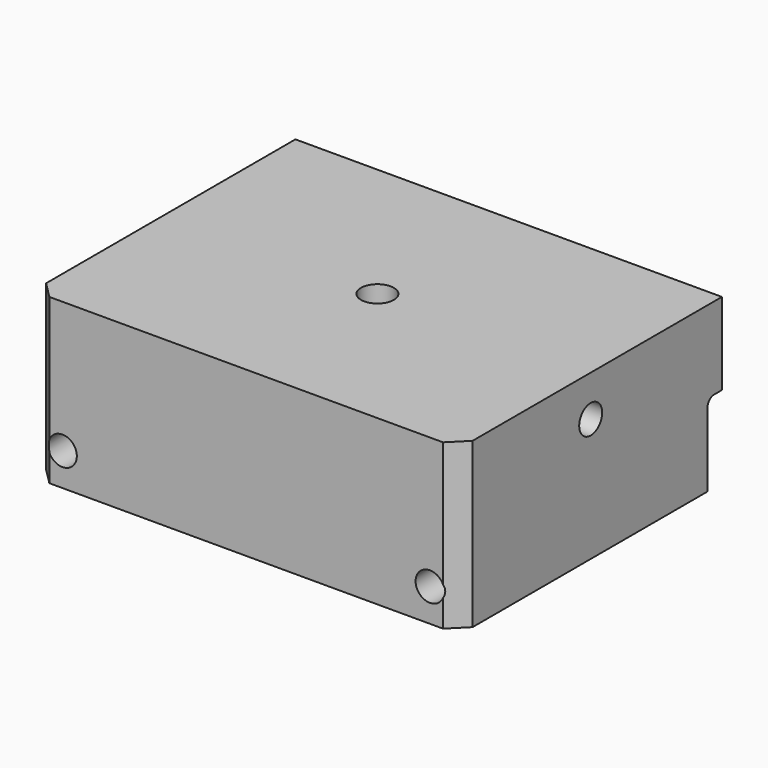
from build123d import *

# Parameters (mm, degrees)
F0_W     = 26
F0_H     = 20
F1_DEPTH = 10
F2_W     = 18
F2_H     = 5
F3_DEPTH = 18
F4_W     = 26
F4_H     = 5
F5_DEPTH = 1.1
F6_R     = 0.5
F7_R     = 0.5
F8_SIZE  = 1
F10_D    = 1.75
F12_D    = 1.75
F14_D    = 2


with BuildPart() as f1:
    # F0 (on Top) → F1 (new body)
    with BuildSketch(Plane.XY):
        Rectangle(F0_W, F0_H)
    extrude(amount=F1_DEPTH)

    # F2 (on face) → F3 (cut)
    with BuildSketch(Plane(origin=(0, 10, 0), x_dir=(-1, 0, 0), z_dir=(0, 1, 0))):
        with Locations((0, 2.5)):
            Rectangle(F2_W, F2_H)
    extrude(amount=-F3_DEPTH, mode=Mode.SUBTRACT)

    # F4 (on face) → F5 (cut)
    with BuildSketch(Plane(origin=(0, 10, 0), x_dir=(-1, 0, 0), z_dir=(0, 1, 0))):
        with Locations((0, 2.5)):
            Rectangle(F4_W, F4_H)
    extrude(amount=-F5_DEPTH, mode=Mode.SUBTRACT)

    # F6
    f6_edges = [f1.edges().sort_by_distance(p)[0] for p in [
        (9, -8, 2.5),
        (-9, -8, 2.5),
        (0, -8, 5),
    ]]
    fillet(f6_edges, radius=F6_R)

    # F7
    f7_edges = [f1.edges().sort_by_distance(p)[0] for p in [
        (-11, 8.9, 5),
        (11, 8.9, 5),
    ]]
    fillet(f7_edges, radius=F7_R)

    # F8
    f8_edges = [f1.edges().sort_by_distance(p)[0] for p in [
        (13, -10, 5),
        (-13, -10, 5),
    ]]
    chamfer(f8_edges, length=F8_SIZE)

    # F10 (through all)
    with Locations(Plane(origin=(0, 8.9, 0), x_dir=(-1, 0, 0), z_dir=(0, 1, 0))):
        with Locations((-11.2, 2), (11.2, 2)):
            Hole(F10_D / 2)

    # F12 (through all)
    with Locations(Plane(origin=(-13, 0, 0), x_dir=(0, -1, 0), z_dir=(-1, 0, 0))):
        with Locations((0, 7.5)):
            Hole(F12_D / 2)

    # F14 (through all)
    with Locations(Plane.XY.offset(10)):
        with Locations((0, 0)):
            Hole(F14_D / 2)


solid = f1.part
